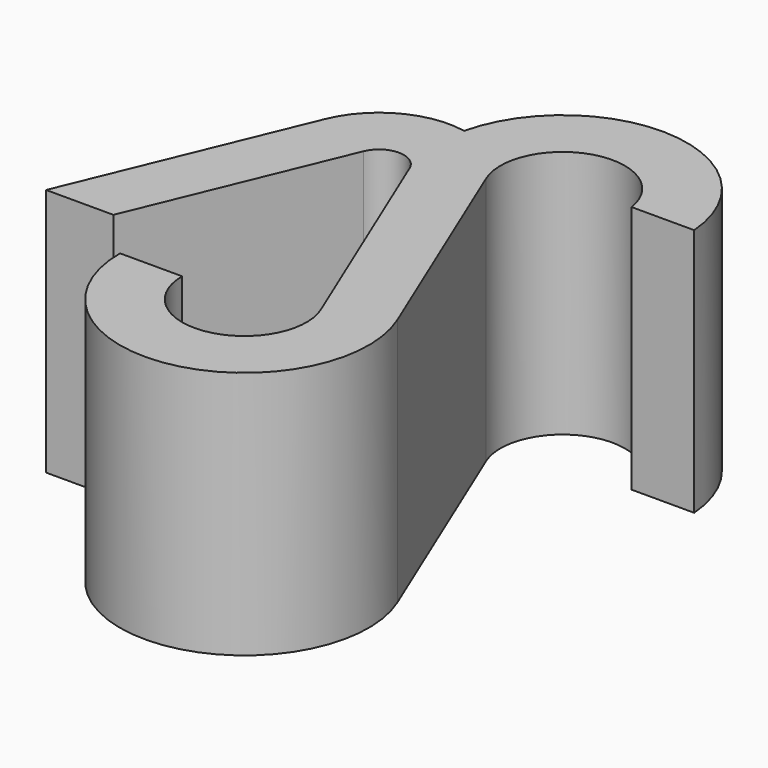
from build123d import *

# Parameters (mm, degrees)
F1_DEPTH = 25.4


with BuildPart() as f1:
    # F0 (on Top) → F1 (new body)
    with BuildSketch(Plane.XY):
        with BuildLine():
            Line((-30.040255, 17.726142), (-39.760414, -5.740398))
            Line((-39.760414, -5.740398), (-32.887224, -5.740398))
            Line((-32.887224, -5.740398), (-24.17362, 15.296103))
            ThreePointArc((-24.17362, 15.296103), (-21.826966, 16.864087), (-19.480312, 15.296103))
            Line((-19.480312, 15.296103), (-9.760153, -8.170438))
            ThreePointArc((-9.760153, -8.170438), (-14.387964, -16.828464), (-21.976788, -10.600477))
            Line((-21.976788, -10.600477), (-28.326788, -10.600477))
            ThreePointArc((-28.326788, -10.600477), (-13.149141, -23.05645), (-3.893518, -5.740398))
            Line((-3.893518, -5.740398), (-13.613677, 17.726142))
            ThreePointArc((-13.613677, 17.726142), (-9.452862, 26.272773), (-1.469535, 21.112951))
            Line((-1.469535, 21.112951), (4.916867, 21.112951))
            ThreePointArc((4.916867, 21.112951), (-6.76845, 32.818424), (-20.113562, 23.047409))
            ThreePointArc((-20.113562, 23.047409), (-26.027096, 22.159328), (-30.040255, 17.726142))
        make_face()
    extrude(amount=F1_DEPTH)


solid = f1.part
